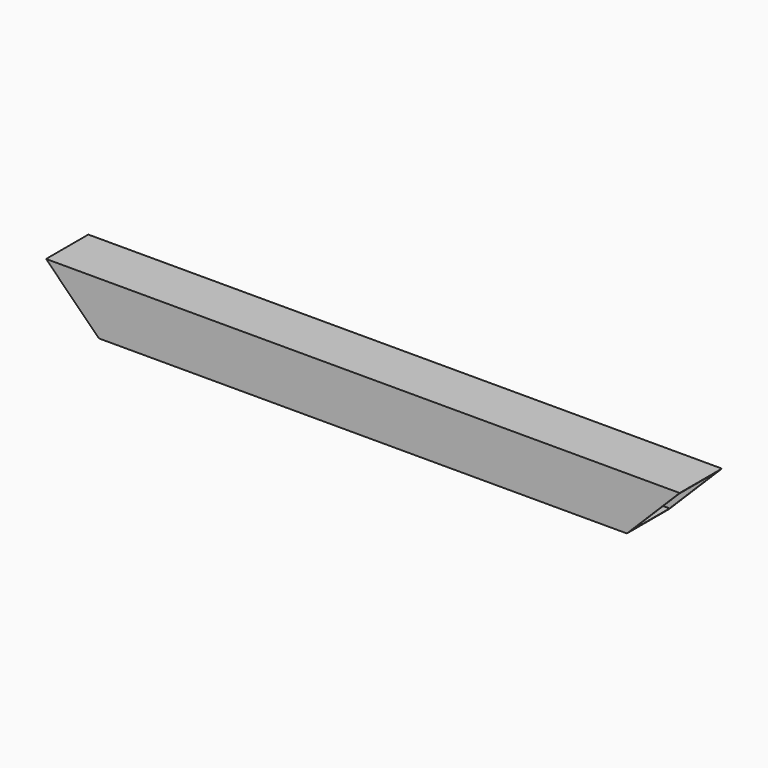
from build123d import *

# Parameters (mm, degrees)
F0_W          = 76.2
F0_H          = 76.2
F0_W_2        = 69.85
F0_H_2        = 69.85
F1_DEPTH      = 457.2
F1_DEPTH_BACK = 457.2
F3_DEPTH      = 76.201


with BuildPart() as f1:
    # F0 (on Right) → F1 (new body, two sides)
    with BuildSketch(Plane.YZ) as f1_sk:
        Rectangle(F0_W, F0_H)
        Rectangle(F0_W_2, F0_H_2, mode=Mode.SUBTRACT)
    extrude(amount=F1_DEPTH)
    extrude(f1_sk.sketch, amount=-F1_DEPTH_BACK)

    # F2 (on face) → F3 (cut, through all)
    with BuildSketch(Plane.XZ.offset(38.1)):
        Polygon((-381, -38.1), (-457.2, 38.1), (-457.2, -38.1), align=None)
        Polygon((457.2, -38.1), (457.2, 38.1), (381, -38.1), align=None)
    extrude(amount=-F3_DEPTH, mode=Mode.SUBTRACT)


solid = f1.part
